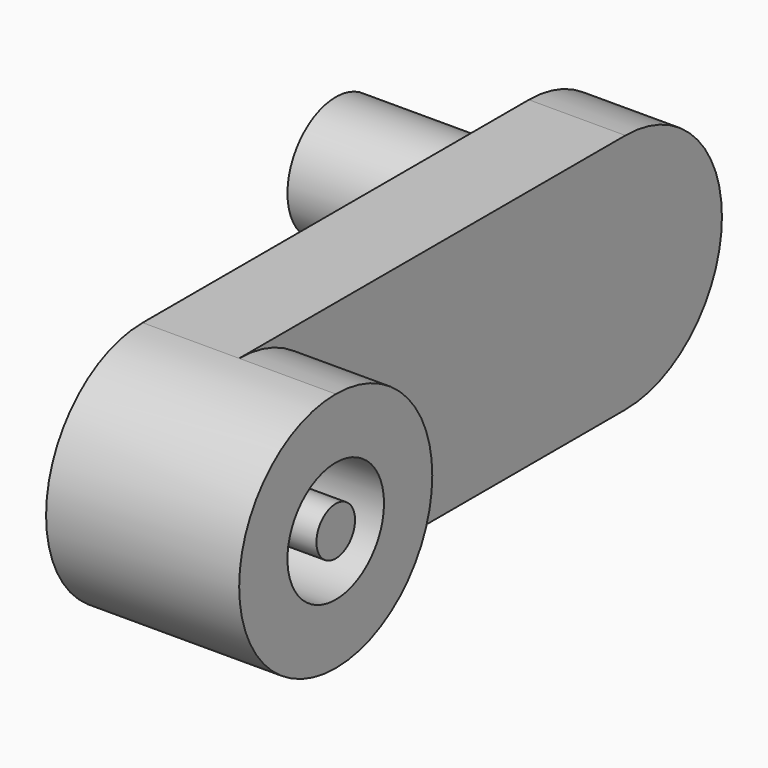
from build123d import *

# Parameters (mm, degrees)
F1_DEPTH  = 50.8
F3_DEPTH  = 50.8
F4_R      = 31.75
F5_DEPTH  = 101.601
F6_R      = 31.75
F7_DEPTH  = 101.6
F8_R      = 25.4
F9_DEPTH  = 101.6
F10_R     = 12.7
F11_DEPTH = 101.6
F12_R     = 12.7
F13_DEPTH = 101.6


with BuildPart() as f1:
    # F0 (on Right) → F1 (new body)
    with BuildSketch(Plane.YZ):
        with BuildLine():
            ThreePointArc((0, 127), (-63.5, 63.5), (0, 0))
            Line((0, 0), (254, 0))
            ThreePointArc((254, 0), (317.5, 63.5), (254, 127))
            Line((254, 127), (0, 127))
        make_face()
    extrude(amount=F1_DEPTH)

    # F2 (on face) → F3 (join)
    with BuildSketch(Plane.YZ.offset(50.8)):
        with BuildLine():
            ThreePointArc((0, 0), (44.901281, 18.598719), (63.5, 63.5))
            ThreePointArc((63.5, 63.5), (44.901281, 108.401281), (0, 127))
            ThreePointArc((0, 127), (-63.5, 63.5), (0, 0))
        make_face()
    extrude(amount=F3_DEPTH)

    # F4 (on face) → F5 (cut, through all)
    with BuildSketch(Plane.YZ.offset(101.6)):
        with Locations((0, 63.5)):
            Circle(F4_R)
    extrude(amount=-F5_DEPTH, mode=Mode.SUBTRACT)

    # F6 (on face) → F7 (join)
    with BuildSketch(Plane(origin=(0, 0, 0), x_dir=(0, -1, 0), z_dir=(-1, 0, 0))):
        with Locations((-254, 63.5)):
            Circle(F6_R)
    extrude(amount=F7_DEPTH)

    # F8 (on face) → F9 (cut, through all)
    with BuildSketch(Plane(origin=(-101.6, 0, 0), x_dir=(0, -1, 0), z_dir=(-1, 0, 0))):
        with Locations((-254, 63.5)):
            Circle(F8_R)
    extrude(amount=-F9_DEPTH, mode=Mode.SUBTRACT)

    # F10 (on face) → F11 (join)
    with BuildSketch(Plane(origin=(0, 0, 0), x_dir=(0, -1, 0), z_dir=(-1, 0, 0))):
        with Locations((-254, 63.5)):
            Circle(F10_R)
    extrude(amount=F11_DEPTH)


with BuildPart() as f13:
    # F12 (on face) → F13 (new body)
    with BuildSketch(Plane(origin=(0, 0, 0), x_dir=(0, -1, 0), z_dir=(-1, 0, 0))):
        with Locations((0, 63.5)):
            Circle(F12_R)
    extrude(amount=-F13_DEPTH)


solid = Compound([f1.part, f13.part])
